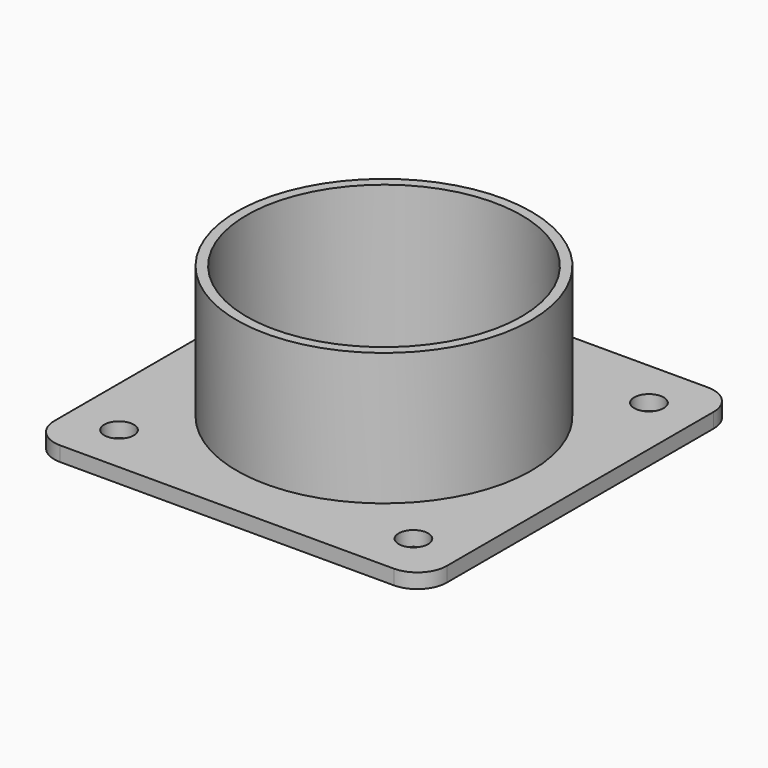
from build123d import *

# Parameters (mm, degrees)
SKETCH_R        = 30
PAD_DEPTH       = 30
SKETCH001_W     = 80
SKETCH001_H     = 80
PAD001_DEPTH    = 3
SKETCH002_R     = 28
POCKET_DEPTH    = 53
SKETCH003_R     = 3
POCKET001_DEPTH = 3
FILLET_R        = 6


with BuildPart() as part:
    # Sketch → Pad (new body)
    with BuildSketch(Plane.XY):
        Circle(SKETCH_R)
    extrude(amount=PAD_DEPTH)

    # Sketch001 → Pad001 (join)
    with BuildSketch(Plane.XY):
        Rectangle(SKETCH001_W, SKETCH001_H)
    extrude(amount=PAD001_DEPTH)

    # Sketch002 (on Face9 of Pad001) → Pocket (cut)
    with BuildSketch(Plane.XY.offset(30)):
        Circle(SKETCH002_R)
    extrude(amount=-POCKET_DEPTH, mode=Mode.SUBTRACT)

    # Sketch003 (on Face2 of Pocket) → Pocket001 (cut)
    with BuildSketch(Plane(origin=(0, 0, 0), x_dir=(1, 0, 0), z_dir=(0, 0, -1))):
        with Locations((-30, 30)):
            Circle(SKETCH003_R)
        with Locations((30, 30)):
            Circle(SKETCH003_R)
        with Locations((30, -30)):
            Circle(SKETCH003_R)
        with Locations((-30, -30)):
            Circle(SKETCH003_R)
    extrude(amount=-POCKET001_DEPTH, mode=Mode.SUBTRACT)

    # Fillet
    fillet_edges = [part.edges().sort_by_distance(p)[0] for p in [
        (-40, -40, 1.5),
        (40, -40, 1.5),
        (40, 40, 1.5),
        (-40, 40, 1.5),
    ]]
    fillet(fillet_edges, radius=FILLET_R)


solid = part.part
